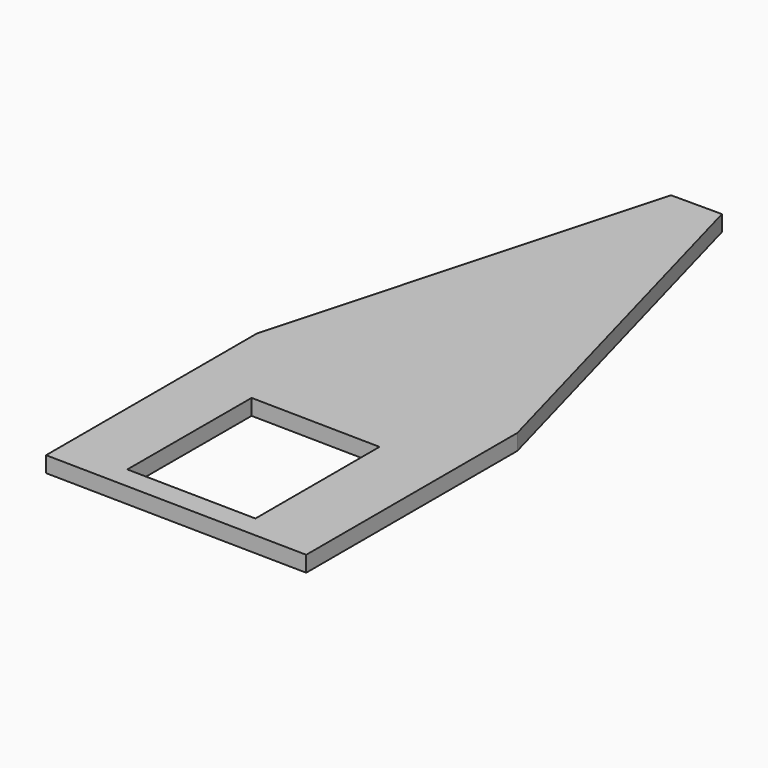
from build123d import *

# Parameters (mm, degrees)
F1_DEPTH = 3


with BuildPart() as f1:
    # F0 (on Top) → F1 (new body)
    with BuildSketch(Plane.XY):
        Polygon((3.548953, -22.717221), (3.548953, -72.717221), (53.54126, -73.594277), (53.54126, -23.594277), (33.368924, 50.078586), (23.721289, 50.078586), align=None)
        Polygon((15.789176, -68.777065), (15.827759, -39.389013), (40.408597, -39.820255), (40.408597, -69.208984), align=None, mode=Mode.SUBTRACT)
    extrude(amount=F1_DEPTH)


solid = f1.part
